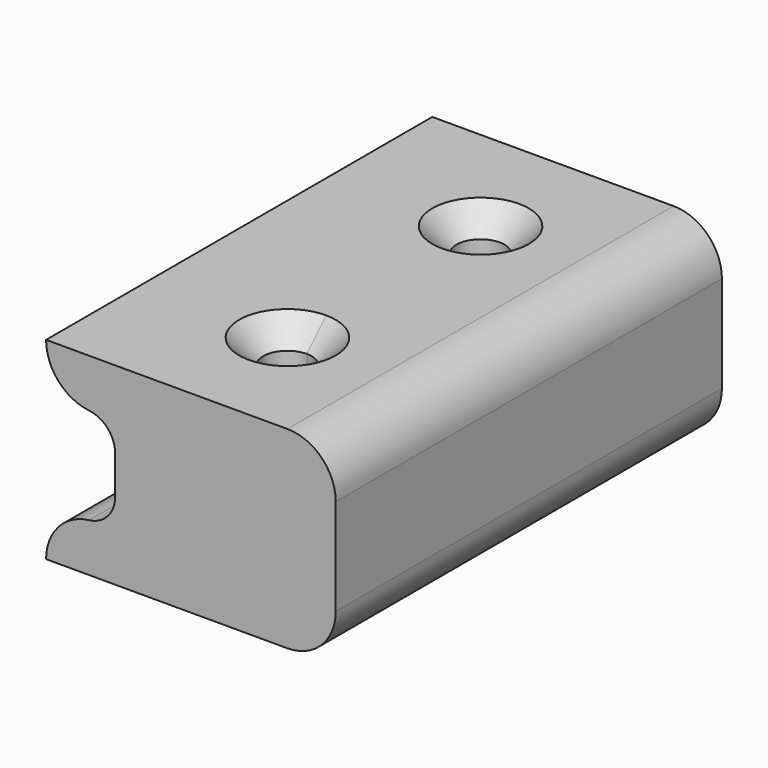
from build123d import *

# Parameters (mm, degrees)
F0_W     = 76.2
F0_H     = 50.8
F1_DEPTH = 127
F3_DEPTH = 127.001
F4_R     = 12.7
F6_DEPTH = 50.801
F7_SIZE  = 6.35


with BuildPart() as f1:
    # F0 (on Front) → F1 (new body)
    with BuildSketch(Plane.XZ):
        with Locations((38.1, 25.4)):
            Rectangle(F0_W, F0_H)
    extrude(amount=F1_DEPTH)

    # F2 (on face) → F3 (cut, through all)
    with BuildSketch(Plane.XZ.offset(127)):
        with BuildLine():
            ThreePointArc((11.316762, 38.1), (3.239664, 42.294721), (0, 50.8))
            Line((0, 50.8), (0, 0))
            ThreePointArc((0, 0), (3.239664, 8.505279), (11.316762, 12.7))
            ThreePointArc((11.316762, 12.7), (16.214601, 15.24362), (18.179088, 20.401103))
            Line((18.179088, 20.401103), (18.179088, 30.398897))
            ThreePointArc((18.179088, 30.398897), (16.214601, 35.55638), (11.316762, 38.1))
        make_face()
    extrude(amount=-F3_DEPTH, mode=Mode.SUBTRACT)

    # F4
    f4_edges = [f1.edges().sort_by_distance(p)[0] for p in [
        (76.2, -63.5, 50.8),
        (76.2, -63.5, 0),
    ]]
    fillet(f4_edges, radius=F4_R)

    # F5 (on face) → F6 (cut, through all)
    with BuildSketch(Plane(origin=(0, 0, 0), x_dir=(1, 0, 0), z_dir=(0, 0, -1))):
        with BuildLine():
            ThreePointArc((38.1, 88.9), (42.590128, 90.759872), (44.45, 95.25))
            ThreePointArc((44.45, 95.25), (33.609872, 99.740128), (38.1, 88.9))
        make_face()
        with BuildLine():
            ThreePointArc((44.45, 31.75), (42.590128, 36.240128), (38.1, 38.1))
            ThreePointArc((38.1, 38.1), (33.609872, 27.259872), (44.45, 31.75))
        make_face()
    extrude(amount=-F6_DEPTH, mode=Mode.SUBTRACT)

    # F7
    f7_edges = [f1.edges().sort_by_distance(p)[0] for p in [
        (38.1, -101.6, 50.8),
        (31.75, -31.75, 50.8),
    ]]
    chamfer(f7_edges, length=F7_SIZE)


solid = f1.part
